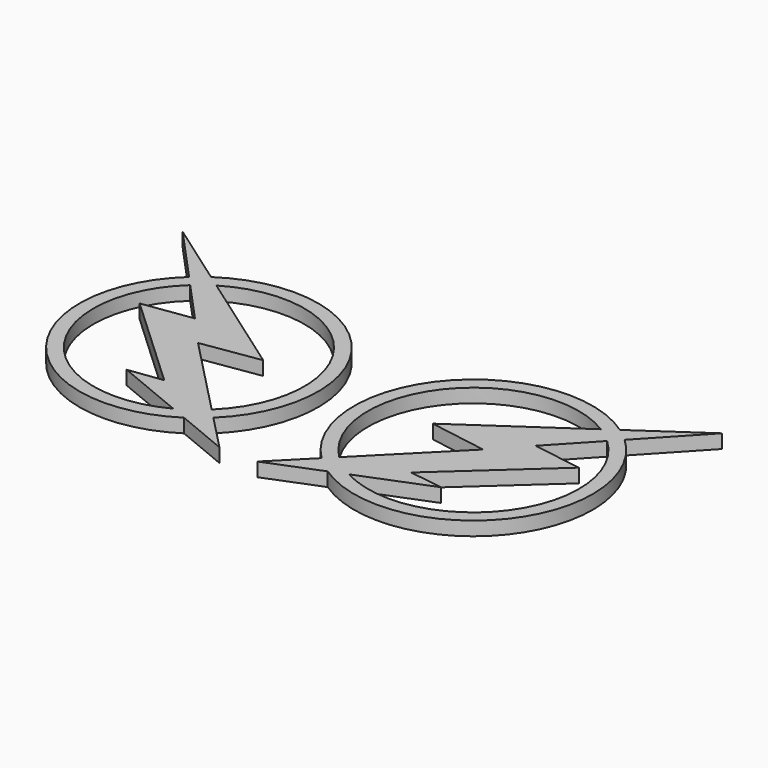
from build123d import *

# Parameters (mm, degrees)
F1_DEPTH = 3.556


with BuildPart() as f1:
    # F0 (on Top) → F1 (new body)
    with BuildSketch(Plane.XY):
        with BuildLine():
            Line((-52.462292, 34.591052), (-69.223523, 46.412986))
            Line((-69.223523, 46.412986), (-55.92863, 31.860464))
            ThreePointArc((-55.92863, 31.860464), (-59.528808, -9.547279), (-18.549197, -16.492338))
            Line((-18.549197, -16.492338), (-4.949536, -22.107681))
            Line((-4.949536, -22.107681), (-13.943851, -12.820073))
            ThreePointArc((-13.943851, -12.820073), (-11.47685, 28.536624), (-52.462292, 34.591052))
        make_face()
        with BuildLine():
            Line((-31.806882, -6.268735), (-40.52978, -7.416485))
            Line((-40.52978, -7.416485), (-22.670135, -14.790789))
            ThreePointArc((-22.670135, -14.790789), (-57.466384, -6.352633), (-53.530161, 29.235112))
            Line((-53.530161, 29.235112), (-43.74348, 18.522661))
            Line((-43.74348, 18.522661), (-56.483503, 16.686263))
            Line((-56.483503, 16.686263), (-31.806882, -6.268735))
        make_face(mode=Mode.SUBTRACT)
        with BuildLine():
            Line((-36.62743, 10.603188), (-21.706684, 12.898687))
            Line((-21.706684, 12.898687), (-49.32612, 32.379066))
            ThreePointArc((-49.32612, 32.379066), (-13.815524, 25.762344), (-16.417663, -10.265594))
            Line((-16.417663, -10.265594), (-36.62743, 10.603188))
        make_face(mode=Mode.SUBTRACT)
        with BuildLine():
            Line((56.483931, 31.198907), (69.949183, 45.593944))
            Line((69.949183, 45.593944), (53.049971, 33.970104))
            ThreePointArc((53.049971, 33.970104), (11.99611, 28.398484), (13.976182, -12.984385))
            Line((13.976182, -12.984385), (4.873177, -22.165489))
            Line((4.873177, -22.165489), (18.537987, -16.710599))
            ThreePointArc((18.537987, -16.710599), (59.596502, -10.24834), (56.483931, 31.198907))
        make_face()
        with BuildLine():
            Line((56.86017, 16.019226), (44.142643, 18.005445))
            Line((44.142643, 18.005445), (54.054729, 28.601966))
            ThreePointArc((54.054729, 28.601966), (57.571821, -7.029642), (22.678666, -15.057671))
            Line((22.678666, -15.057671), (40.623868, -7.89408))
            Line((40.623868, -7.89408), (31.915084, -6.643743))
            Line((31.915084, -6.643743), (56.86017, 16.019226))
        make_face(mode=Mode.SUBTRACT)
        with BuildLine():
            Line((22.04118, 12.641228), (36.933876, 10.170274))
            Line((36.933876, 10.170274), (16.479888, -10.459198))
            ThreePointArc((16.479888, -10.459198), (14.30197, 25.596871), (49.887983, 31.795184))
            Line((49.887983, 31.795184), (22.04118, 12.641228))
        make_face(mode=Mode.SUBTRACT)
    extrude(amount=F1_DEPTH)


solid = f1.part
